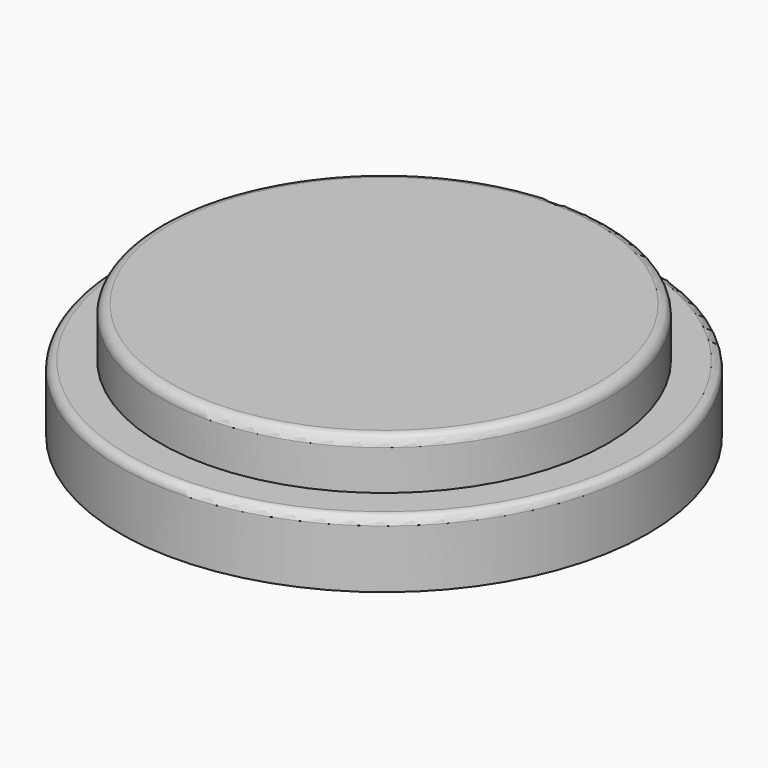
from build123d import *

# Parameters (mm, degrees)
F0_R     = 13.46689
F1_DEPTH = 7
F2_R     = 0.6
F3_R     = 15.865442
F4_DEPTH = 4
F5_R     = 0.5


with BuildPart() as f1:
    # F0 (on Top) → F1 (new body)
    with BuildSketch(Plane.XY):
        Circle(F0_R)
    extrude(amount=F1_DEPTH)

    # F2
    f2_edges = [f1.edges().sort_by_distance(p)[0] for p in [
        (-13.46689, 0, 7),
    ]]
    fillet(f2_edges, radius=F2_R)

    # F3 (on Top) → F4 (join)
    with BuildSketch(Plane.XY):
        Circle(F3_R)
    extrude(amount=F4_DEPTH)

    # F5
    f5_edges = [f1.edges().sort_by_distance(p)[0] for p in [
        (-15.865442, 0, 4),
    ]]
    fillet(f5_edges, radius=F5_R)


solid = f1.part
